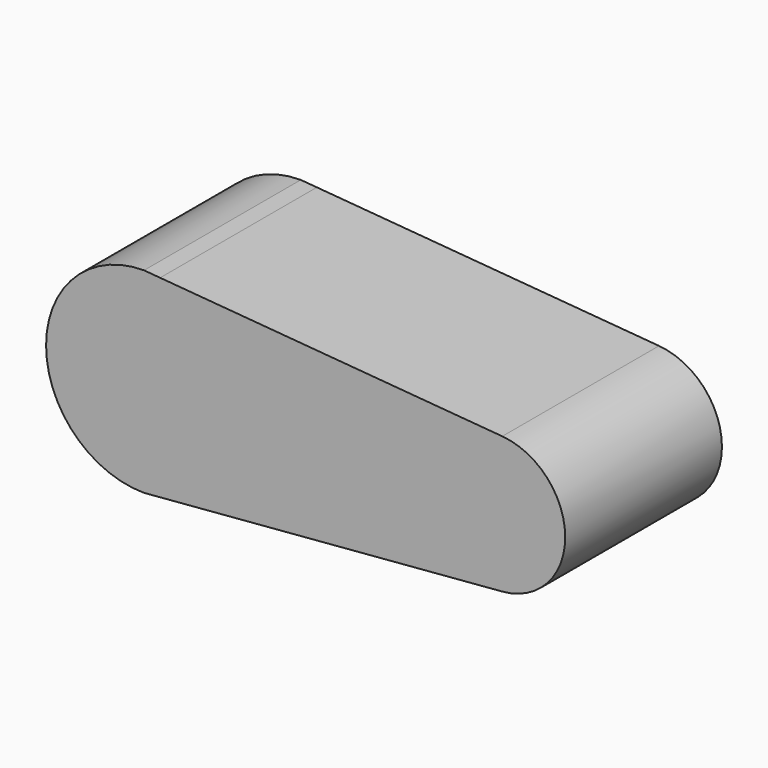
from build123d import *

# Parameters (mm, degrees)
F1_DEPTH = 50


with BuildPart() as f1:
    # F0 (on Front) → F1 (new body)
    with BuildSketch(Plane.XZ):
        with BuildLine():
            Line((91.4418067738, 17.4405043857), (4.1054428346, 24.6606029758))
            ThreePointArc((4.1054428346, 24.6606029758), (19.0740146648, 16.1611251022), (25, 0))
            ThreePointArc((25, 0), (19.0740146648, -16.1611251022), (4.1054428346, -24.6606029758))
            Line((4.1054428346, -24.6606029758), (91.4418067738, -17.4405043857))
            ThreePointArc((91.4418067738, -17.4405043857), (72.5, 0), (91.4418067738, 17.4405043857))
        make_face()
        with BuildLine():
            Line((4.1054428346, 24.6606029758), (0, 25))
            ThreePointArc((0, 25), (-25, 0), (0, -25))
            Line((0, -25), (4.1054428346, -24.6606029758))
            ThreePointArc((4.1054428346, -24.6606029758), (19.0740146648, -16.1611251022), (25, 0))
            ThreePointArc((25, 0), (19.0740146648, 16.1611251022), (4.1054428346, 24.6606029758))
        make_face()
        with BuildLine():
            ThreePointArc((107.5, 0), (102.8740362463, 11.8536572723), (91.4418067738, 17.4405043857))
            ThreePointArc((91.4418067738, 17.4405043857), (72.5, 0), (91.4418067738, -17.4405043857))
            ThreePointArc((91.4418067738, -17.4405043857), (102.8740362463, -11.8536572723), (107.5, 0))
        make_face()
    extrude(amount=F1_DEPTH)


solid = f1.part
